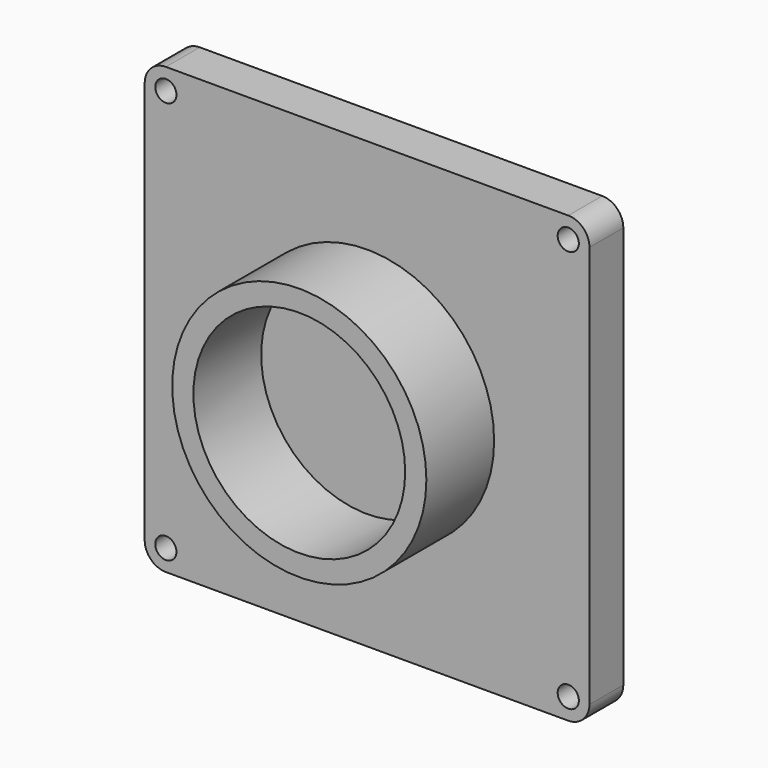
from build123d import *

# Parameters (mm, degrees)
F0_R     = 3.175
F1_DEPTH = 12.7
F2_R     = 38.1
F2_R_2   = 31.75
F3_DEPTH = 25.4


with BuildPart() as f1:
    # F0 (on Front) → F1 (new body)
    with BuildSketch(Plane.XZ):
        with BuildLine():
            Line((60.784649, 68.89116), (-59.865351, 68.89116))
            ThreePointArc((-59.865351, 68.89116), (-64.355479, 67.031288), (-66.215351, 62.54116))
            Line((-66.215351, 62.54116), (-66.215351, -58.10884))
            ThreePointArc((-66.215351, -58.10884), (-64.355479, -62.598968), (-59.865351, -64.45884))
            Line((-59.865351, -64.45884), (60.784649, -64.45884))
            ThreePointArc((60.784649, -64.45884), (65.274777, -62.598968), (67.134649, -58.10884))
            Line((67.134649, -58.10884), (67.134649, 62.54116))
            ThreePointArc((67.134649, 62.54116), (65.274777, 67.031288), (60.784649, 68.89116))
        make_face()
        with Locations((-59.865351, -58.10884)):
            Circle(F0_R, mode=Mode.SUBTRACT)
        with Locations((60.784649, -58.10884)):
            Circle(F0_R, mode=Mode.SUBTRACT)
        with Locations((-59.865351, 62.54116)):
            Circle(F0_R, mode=Mode.SUBTRACT)
        with Locations((60.784649, 62.54116)):
            Circle(F0_R, mode=Mode.SUBTRACT)
    extrude(amount=F1_DEPTH)

    # F2 (on face) → F3 (join)
    with BuildSketch(Plane.XZ.offset(12.7)):
        with Locations((0.459649, 2.21616)):
            Circle(F2_R)
        with Locations((0.459649, 2.21616)):
            Circle(F2_R_2, mode=Mode.SUBTRACT)
    extrude(amount=F3_DEPTH)


solid = f1.part
